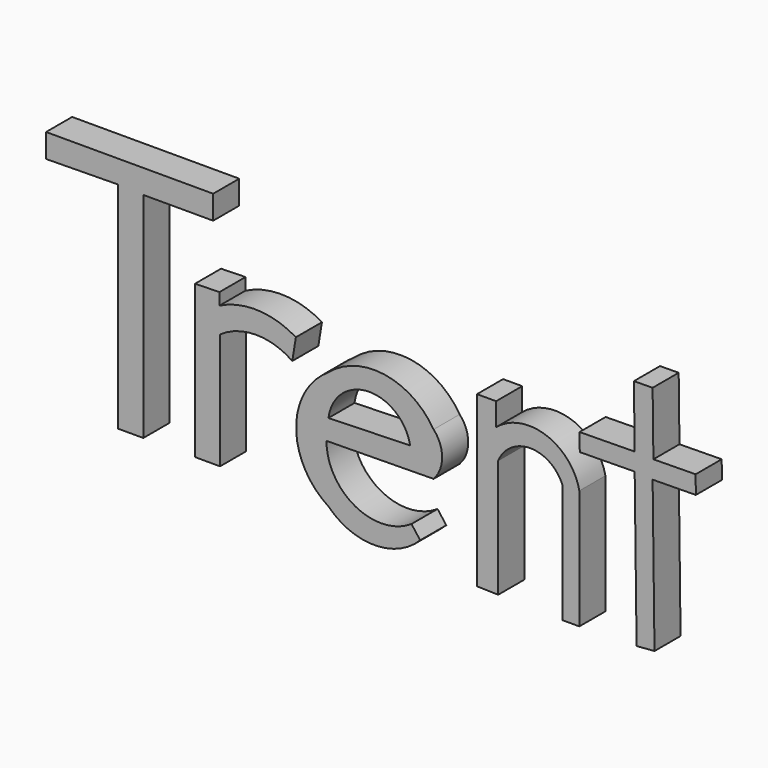
from build123d import *

# Parameters (mm, degrees)
F1_DEPTH = 100
F2_DEPTH = 100
F3_DEPTH = 100
F4_DEPTH = 100
F5_DEPTH = 100


with BuildPart() as f1:
    # F0 (on Front) → F1 (new body)
    with BuildSketch(Plane.XZ):
        Polygon((-1036.084294, 208.102405), (-1036.084294, -451.626509), (-958.595753, -451.626509), (-958.595753, 205.239475), (-744.171321, 205.239475), (-744.171321, 278.18799), (-1257.021546, 278.18799), (-1257.021546, 205.239475), align=None)
    extrude(amount=F1_DEPTH)


with BuildPart() as f2:
    # F0 (on Front) → F2 (new body)
    with BuildSketch(Plane.XZ):
        with BuildLine():
            Line((-799.981534, 16.84829), (-799.981534, -451.626509))
            Line((-799.981534, -451.626509), (-723.038435, -451.626509))
            Line((-723.038435, -451.626509), (-723.038435, -94.902396))
            ThreePointArc((-723.038435, -94.902396), (-612.203747, -60.092636), (-501.369059, -94.902396))
            Line((-501.369059, -94.902396), (-490.377158, -27.119182))
            ThreePointArc((-490.377158, -27.119182), (-606.43998, 7.766619), (-724.870443, -17.959304))
            Line((-724.870443, -17.959304), (-724.870443, 18.680276))
            Line((-724.870443, 18.680276), (-799.981534, 16.84829))
        make_face()
    extrude(amount=F2_DEPTH)


with BuildPart() as f3:
    # F0 (on Front) → F3 (new body)
    with BuildSketch(Plane.XZ):
        with BuildLine():
            ThreePointArc((-390.324742, -89.421645), (-489.446747, -270.524077), (-390.324742, -451.626509))
            ThreePointArc((-390.324742, -451.626509), (-249.534879, -510.334954), (-108.745016, -451.626509))
            Line((-108.745016, -451.626509), (-135.464251, -416.218519))
            ThreePointArc((-135.464251, -416.218519), (-307.956148, -424.738771), (-396.490693, -276.456326))
            Line((-396.490693, -276.456326), (-67.638494, -272.345692))
            ThreePointArc((-67.638494, -272.345692), (-41.40752, -205.547586), (-67.638494, -138.74948))
            ThreePointArc((-67.638494, -138.74948), (-217.582235, -39.514601), (-390.324742, -89.421645))
        make_face()
        with BuildLine():
            ThreePointArc((-390.324742, -212.741211), (-268.040688, -101.404954), (-139.574878, -205.547586))
            Line((-139.574878, -205.547586), (-390.324742, -212.741211))
        make_face(mode=Mode.SUBTRACT)
    extrude(amount=F3_DEPTH)


with BuildPart() as f4:
    # F0 (on Front) → F4 (new body)
    with BuildSketch(Plane.XZ):
        with BuildLine():
            Line((65.577313, 0), (65.577313, -519.131422))
            Line((65.577313, -519.131422), (130.613767, -520.931278))
            Line((130.613767, -520.931278), (130.613767, -159.01868))
            ThreePointArc((130.613767, -159.01868), (228.973519, -92.834761), (327.333272, -159.01868))
            Line((327.333272, -159.01868), (327.333272, -525.476992))
            Line((327.333272, -525.476992), (379.684448, -525.476992))
            Line((379.684448, -525.476992), (379.684448, -159.01868))
            ThreePointArc((379.684448, -159.01868), (277.276649, -41.869555), (124.274112, -70.180312))
            Line((124.274112, -70.180312), (124.274112, 0))
            Line((124.274112, 0), (65.577313, 0))
        make_face()
    extrude(amount=F4_DEPTH)


with BuildPart() as f5:
    # F0 (on Front) → F5 (new body)
    with BuildSketch(Plane.XZ):
        Polygon((549.496159, -51.937837), (555.363774, -521.349132), (610.35245, -517.057402), (604.58554, -55.702572), (737.282773, -54.043864), (736.586978, 1.619941), (606.99113, 0), (604.58554, 192.448024), (547.125978, 191.729783), (549.496159, 2.114472), (380.337652, 0), (381.013197, -54.043864), align=None)
    extrude(amount=F5_DEPTH)


solid = Compound([f1.part, f2.part, f3.part, f4.part, f5.part])
